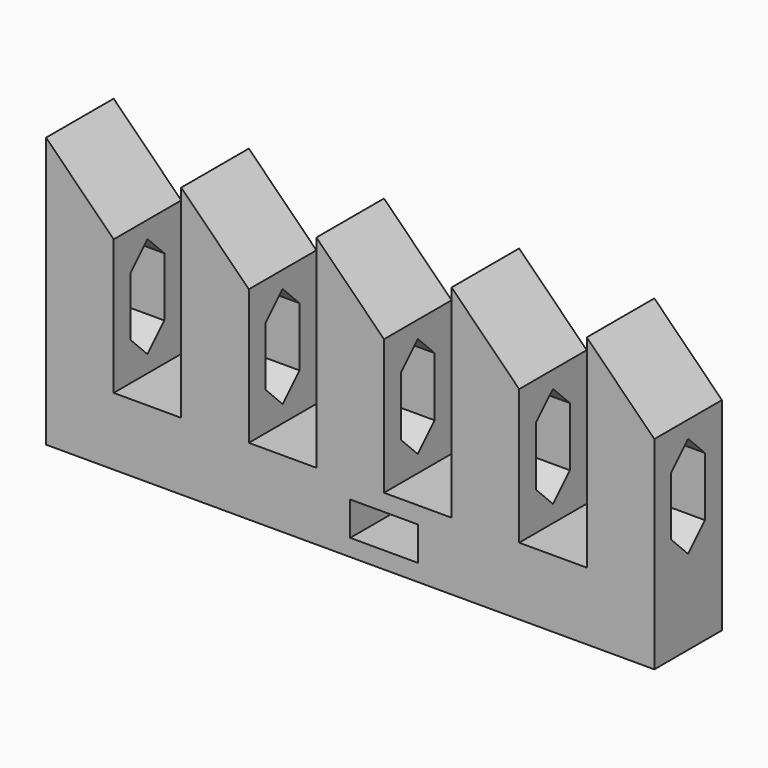
from build123d import *

# Parameters (mm, degrees)
F0_W     = 20
F0_H     = 60
F1_DEPTH = 25
F3_DEPTH = 180.001
F5_DEPTH = 25.001
F6_W     = 20
F6_H     = 10
F7_DEPTH = 25.001


with BuildPart() as f1:
    # F0 (on Front) → F1 (new body)
    with BuildSketch(Plane.XZ):
        Polygon((-46.595383, 21.920689), (-46.595383, 1.920689), (133.404617, 1.920689), (133.404617, 21.920689), (113.404617, 21.920689), (93.404617, 21.920689), (73.404617, 21.920689), (53.404617, 21.920689), (33.404617, 21.920689), (13.404617, 21.920689), (-6.595383, 21.920689), (-26.595383, 21.920689), align=None)
        with Locations((-36.595383, 51.920689)):
            Rectangle(F0_W, F0_H)
        with Locations((123.404617, 51.920689)):
            Rectangle(F0_W, F0_H)
        with Locations((3.404617, 51.920689)):
            Rectangle(F0_W, F0_H)
        with Locations((83.404617, 51.920689)):
            Rectangle(F0_W, F0_H)
        with Locations((43.404617, 51.920689)):
            Rectangle(F0_W, F0_H)
    extrude(amount=F1_DEPTH)

    # F2 (on face) → F3 (cut, through all)
    with BuildSketch(Plane.YZ.offset(133.404617)):
        Polygon((-18.75, 50.670689), (-18.75, 33.170689), (-12.5, 26.920689), (-6.25, 33.170689), (-6.25, 50.670689), (-12.5, 56.920689), align=None)
    extrude(amount=-F3_DEPTH, mode=Mode.SUBTRACT)

    # F4 (on face) → F5 (cut, through all)
    with BuildSketch(Plane.XZ.offset(25)):
        Polygon((-26.595383, 81.920689), (-46.595383, 81.920689), (-26.595383, 61.920689), align=None)
        Polygon((13.404617, 81.920689), (-6.595383, 81.920689), (13.404617, 61.920689), align=None)
        Polygon((53.404617, 81.920689), (33.404617, 81.920689), (53.404617, 61.920689), align=None)
        Polygon((93.404617, 81.920689), (73.404617, 81.920689), (93.404617, 61.920689), align=None)
        Polygon((133.404617, 81.920689), (113.404617, 81.920689), (133.404617, 61.920689), align=None)
    extrude(amount=-F5_DEPTH, mode=Mode.SUBTRACT)

    # F6 (on face) → F7 (cut, through all)
    with BuildSketch(Plane.XZ.offset(25)):
        with Locations((53.404617, 11.920689)):
            Rectangle(F6_W, F6_H)
    extrude(amount=-F7_DEPTH, mode=Mode.SUBTRACT)


solid = f1.part
